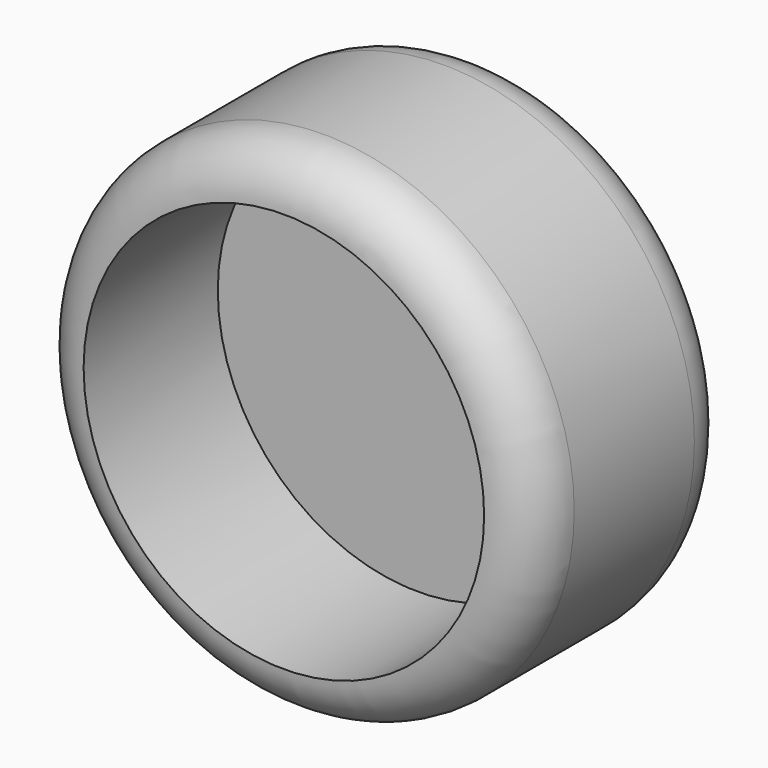
from build123d import *

# Parameters (mm, degrees)
F0_R      = 25.4
F1_DEPTH  = 25.4
F2_R      = 5.08
F1_FACE_R = 20.32
F3_DEPTH  = 17.018


with BuildPart() as f1:
    # F0 (on Front) → F1 (new body)
    with BuildSketch(Plane.XZ):
        Circle(F0_R)
    extrude(amount=F1_DEPTH)

    # F2
    f2_edges = [f1.edges().sort_by_distance(p)[0] for p in [
        (25.4, -12.7, 0),
        (-25.4, 0, 0),
        (-25.4, -25.4, 0),
    ]]
    fillet(f2_edges, radius=F2_R)

    # F1_face (on face) → F3 (cut)
    with BuildSketch(Plane.XZ.offset(25.4)):
        Circle(F1_FACE_R)
    extrude(amount=-F3_DEPTH, mode=Mode.SUBTRACT)


solid = f1.part
